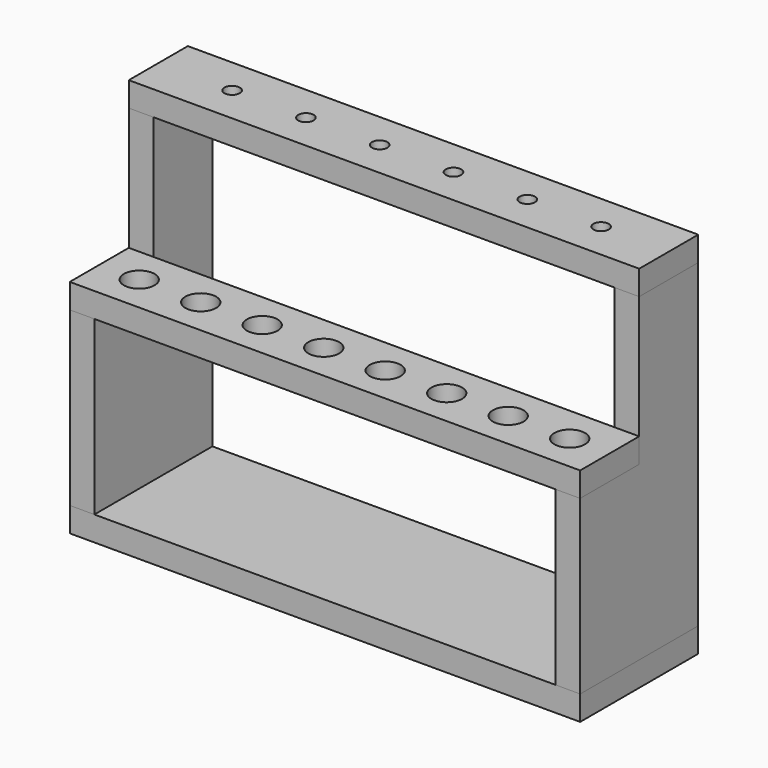
from build123d import *

# Parameters (mm, degrees)
F0_W      = 263.525
F0_H      = 76.2
F1_DEPTH  = 12.7
F2_W      = 12.7
F2_H      = 76.2
F3_DEPTH  = 165.1
F4_W      = 38.1
F4_H      = 76.2
F5_DEPTH  = 12.7
F6_W      = 12.7
F6_H      = 76.2
F7_DEPTH  = 165.1
F8_W      = 38.1
F8_H      = 76.2
F9_DEPTH  = 12.7
F10_W     = 263.525
F10_H     = 38.1
F11_DEPTH = 12.7
F12_W     = 263.525
F12_H     = 38.1
F13_DEPTH = 12.7
F14_R     = 7.9375
F15_DEPTH = 12.7
F16_R     = 3.96875
F17_DEPTH = 12.7


with BuildPart() as f1:
    # F0 (on Top) → F1 (new body)
    with BuildSketch(Plane.XY):
        with Locations((-57.3099, 38.1)):
            Rectangle(F0_W, F0_H)
    extrude(amount=F1_DEPTH)


with BuildPart() as f3:
    # F2 (on face) → F3 (new body)
    with BuildSketch(Plane.XY.offset(12.7)):
        with Locations((-182.7224, 38.1)):
            Rectangle(F2_W, F2_H)
    extrude(amount=F3_DEPTH)

    # F4 (on face) → F5 (cut, through all)
    with BuildSketch(Plane.YZ.offset(-176.3724)):
        with Locations((19.05, 139.7)):
            Rectangle(F4_W, F4_H)
    extrude(amount=-F5_DEPTH, mode=Mode.SUBTRACT)


with BuildPart() as f7:
    # F6 (on face) → F7 (new body)
    with BuildSketch(Plane.XY.offset(12.7)):
        with Locations((68.1026, 38.1)):
            Rectangle(F6_W, F6_H)
    extrude(amount=F7_DEPTH)

    # F8 (on face) → F9 (cut, through all)
    with BuildSketch(Plane.YZ.offset(74.4526)):
        with Locations((19.05, 139.7)):
            Rectangle(F8_W, F8_H)
    extrude(amount=-F9_DEPTH, mode=Mode.SUBTRACT)


with BuildPart() as f11:
    # F10 (on face) → F11 (new body)
    with BuildSketch(Plane.XY.offset(177.8)):
        with Locations((-57.3099, 57.15)):
            Rectangle(F10_W, F10_H)
    extrude(amount=F11_DEPTH)

    # F16 (on face) → F17 (cut, through all)
    with BuildSketch(Plane.XY.offset(190.5)):
        with Locations((-150.9724, 57.15)):
            Circle(F16_R)
        with Locations((1.4276, 57.15)):
            Circle(F16_R)
        with Locations((-112.8724, 57.15)):
            Circle(F16_R)
        with Locations((-74.7724, 57.15)):
            Circle(F16_R)
        with Locations((-36.6724, 57.15)):
            Circle(F16_R)
        with Locations((39.5276, 57.15)):
            Circle(F16_R)
    extrude(amount=-F17_DEPTH, mode=Mode.SUBTRACT)


with BuildPart() as f13:
    # F12 (on face) → F13 (new body)
    with BuildSketch(Plane.XY.offset(101.6)):
        with Locations((-57.3099, 19.05)):
            Rectangle(F12_W, F12_H)
    extrude(amount=F13_DEPTH)

    # F14 (on face) → F15 (cut, through all)
    with BuildSketch(Plane.XY.offset(114.3)):
        with Locations((-168.4349, 19.05)):
            Circle(F14_R)
        with Locations((-136.6849, 19.05)):
            Circle(F14_R)
        with Locations((-104.9349, 19.05)):
            Circle(F14_R)
        with Locations((-73.1849, 19.05)):
            Circle(F14_R)
        with Locations((-41.4349, 19.05)):
            Circle(F14_R)
        with Locations((-9.6849, 19.05)):
            Circle(F14_R)
        with Locations((22.0651, 19.05)):
            Circle(F14_R)
        with Locations((53.8151, 19.05)):
            Circle(F14_R)
    extrude(amount=-F15_DEPTH, mode=Mode.SUBTRACT)


solid = Compound([f1.part, f3.part, f7.part, f11.part, f13.part])
